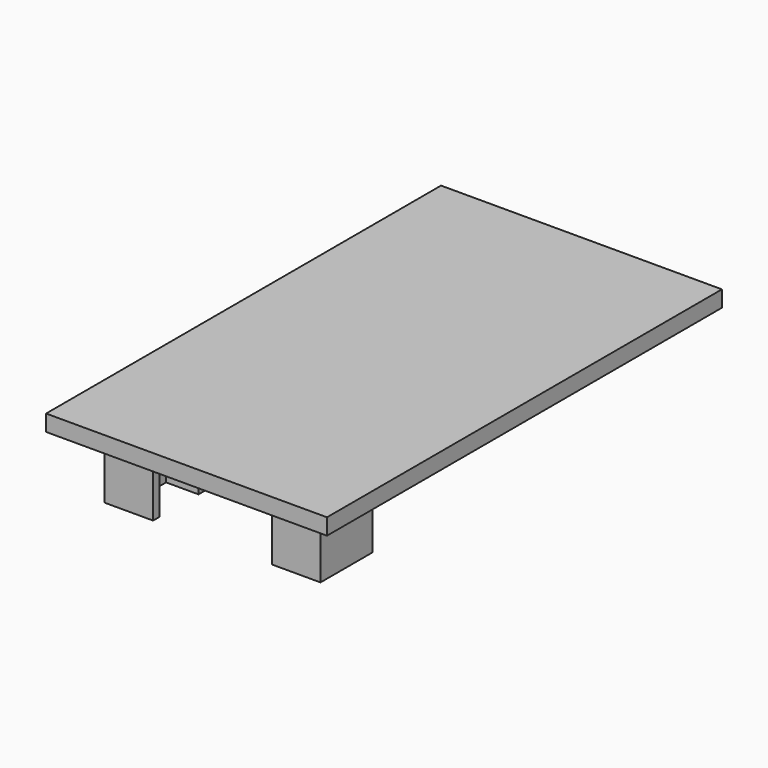
from build123d import *

# Parameters (mm, degrees)
F0_W     = 86.602568
F0_H     = 152.204066
F1_DEPTH = 5
F2_W     = 10
F2_H     = 2.5
F3_DEPTH = 20


with BuildPart() as f1:
    # F0 (on Top) → F1 (new body)
    with BuildSketch(Plane.XY):
        Rectangle(F0_W, F0_H)
    extrude(amount=F1_DEPTH)

    # F2 (on face) → F3 (join)
    with BuildSketch(Plane(origin=(0, 0, 0), x_dir=(1, 0, 0), z_dir=(0, 0, -1))):
        Polygon((-28.301284, 66.102033), (-33.301284, 66.102033), (-33.301284, 46.102033), (-28.301284, 46.102033), (-28.301284, 48.602033), (-28.301284, 63.602033), align=None)
        with Locations((-23.301284, 64.852033)):
            Rectangle(F2_W, F2_H)
        with Locations((-23.301284, 47.352033)):
            Rectangle(F2_W, F2_H)
        Polygon((28.301284, 48.602033), (28.301284, 46.102033), (33.301284, 46.102033), (33.301284, 66.102033), (28.301284, 66.102033), (28.301284, 63.602033), align=None)
        with Locations((23.301284, 47.352033)):
            Rectangle(F2_W, F2_H)
        with Locations((23.301284, 64.852033)):
            Rectangle(F2_W, F2_H)
    extrude(amount=F3_DEPTH)


solid = f1.part
